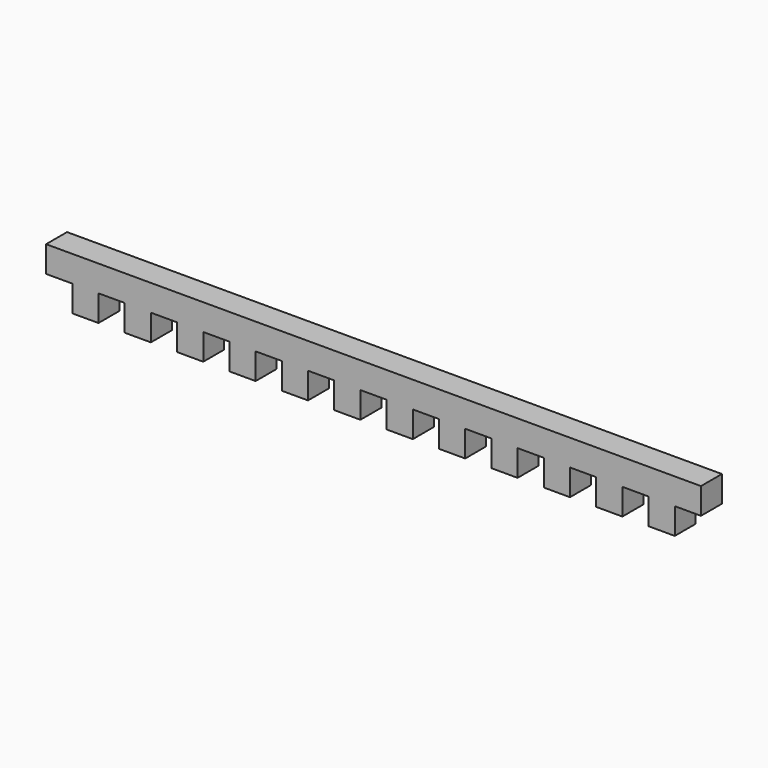
from build123d import *

# Parameters (mm, degrees)
F1_DEPTH = 19.05


with BuildPart() as f1:
    # F0 (on Front) → F1 (new body)
    with BuildSketch(Plane.XZ):
        Polygon((476.25, 0), (0, 0), (0, -19.05), (19.05, -19.05), (19.05, -38.1), (38.1, -38.1), (38.1, -19.05), (48.385094, -19.05), (57.15, -19.05), (57.15, -38.1), (67.435094, -38.1), (76.2, -38.1), (76.2, -19.05), (95.25, -19.05), (95.25, -38.1), (114.3, -38.1), (114.3, -19.05), (133.35, -19.05), (133.35, -38.1), (152.4, -38.1), (152.4, -19.05), (171.45, -19.05), (171.45, -38.1), (190.5, -38.1), (190.5, -19.05), (209.55, -19.05), (209.55, -38.1), (228.6, -38.1), (228.6, -19.05), (247.65, -19.05), (247.65, -38.1), (266.7, -38.1), (266.7, -19.05), (285.75, -19.05), (285.75, -38.1), (304.8, -38.1), (304.8, -19.05), (323.85, -19.05), (323.85, -38.1), (342.9, -38.1), (342.9, -19.05), (361.95, -19.05), (361.95, -38.1), (381, -38.1), (381, -19.05), (400.05, -19.05), (400.05, -38.1), (419.1, -38.1), (419.1, -19.05), (438.15, -19.05), (438.15, -38.1), (457.2, -38.1), (457.2, -19.05), (476.25, -19.05), align=None)
    extrude(amount=F1_DEPTH)


solid = f1.part
